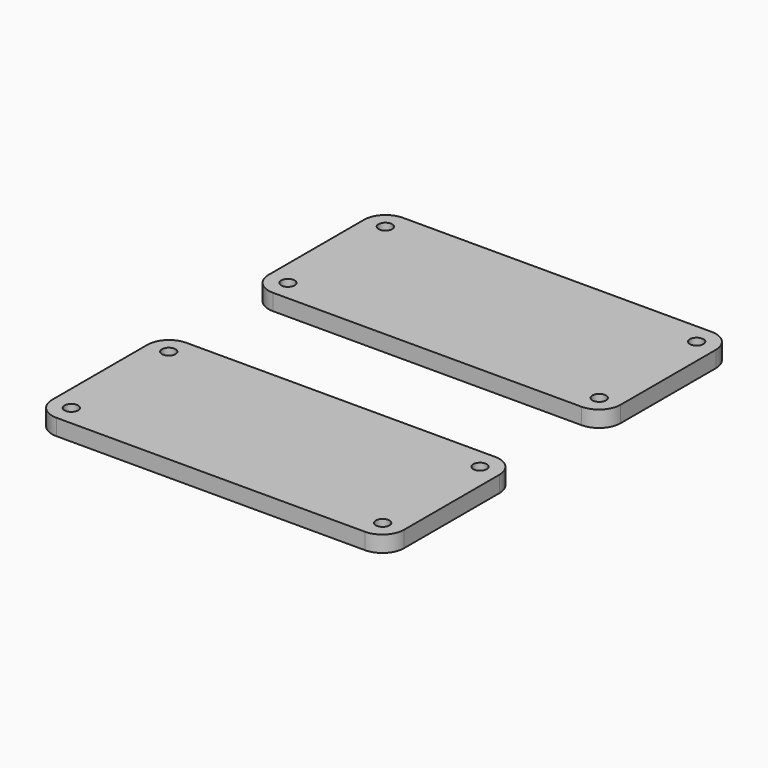
from build123d import *

# Parameters (mm, degrees)
F0_R     = 1.25
F1_DEPTH = 3


with BuildPart() as f1:
    # F0 (on Top) → F1 (new body)
    with BuildSketch(Plane.XY):
        with BuildLine():
            Line((27.083746, 16.109703), (-29.916254, 16.109703))
            ThreePointArc((-29.916254, 16.109703), (-32.744681, 14.93813), (-33.916254, 12.109703))
            Line((-33.916254, 12.109703), (-33.916254, -9.881106))
            ThreePointArc((-33.916254, -9.881106), (-32.744681, -12.709533), (-29.916254, -13.881106))
            Line((-29.916254, -13.881106), (27.083746, -13.881106))
            ThreePointArc((27.083746, -13.881106), (29.912173, -12.709533), (31.083746, -9.881106))
            Line((31.083746, -9.881106), (31.083746, 12.109703))
            ThreePointArc((31.083746, 12.109703), (29.912173, 14.93813), (27.083746, 16.109703))
        make_face()
        with Locations((-30.166254, -10.131106)):
            Circle(F0_R, mode=Mode.SUBTRACT)
        with Locations((27.333746, -10.131106)):
            Circle(F0_R, mode=Mode.SUBTRACT)
        with Locations((-30.166254, 12.359703)):
            Circle(F0_R, mode=Mode.SUBTRACT)
        with Locations((27.333746, 12.359703)):
            Circle(F0_R, mode=Mode.SUBTRACT)
    extrude(amount=F1_DEPTH)


with BuildPart() as f2_1:
    # F2: copy of F1
    add(f1.part.moved(Location((0, 50, 0))))


solid = Compound([f1.part, f2_1.part])
